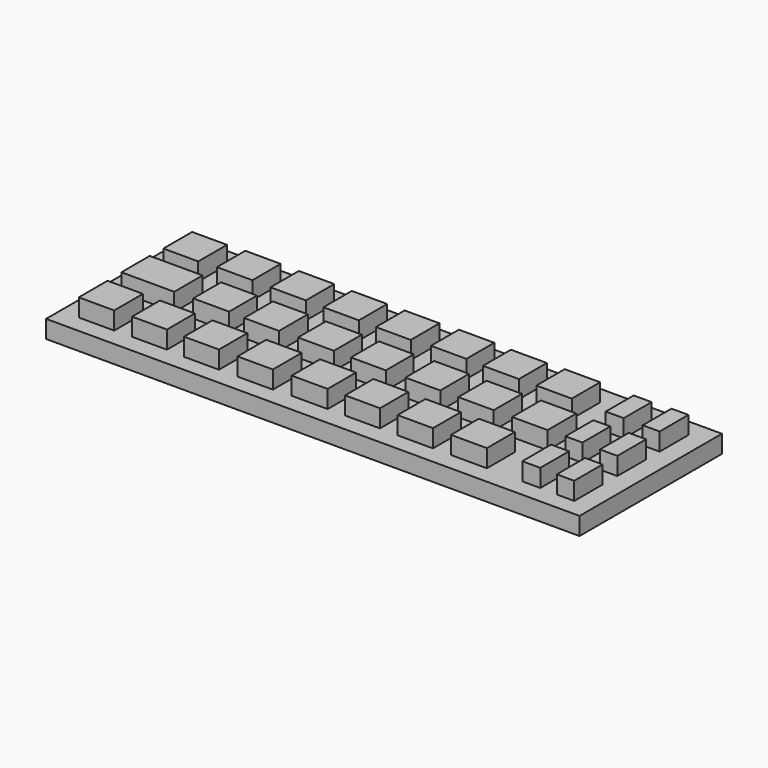
from build123d import *

# Parameters (mm, degrees)
SKETCH_W       = 30.047779
SKETCH_H       = 10.025875
PAD_DEPTH      = 1
SKETCH001_W    = 1.995144
SKETCH001_H    = 2.024921
SKETCH001_W_2  = 1.965365
SKETCH001_H_2  = 1.965365
SKETCH001_W_3  = 1.965363
SKETCH001_H_3  = 1.995143
SKETCH001_W_4  = 1.995143
SKETCH001_W_5  = 2.024922
SKETCH001_W_6  = 1.965367
SKETCH001_W_7  = 1.995147
SKETCH001_W_8  = 0.982683
SKETCH001_W_9  = 1.012457
SKETCH001_W_10 = 0.952904
SKETCH001_H_4  = 2.024922
SKETCH001_W_11 = 1.012463
SKETCH001_H_5  = 1.965366
SKETCH001_W_12 = 0.952906
SKETCH001_W_13 = 2.977825
SKETCH001_W_14 = 1.965366
SKETCH001_H_6  = 1.995144
SKETCH001_W_15 = 2.024921
SKETCH001_W_16 = 1.965361
SKETCH001_W_17 = 1.99514
SKETCH001_W_18 = 1.965362
SKETCH001_W_19 = 2.024923
SKETCH001_H_7  = 1.965364
SKETCH001_W_20 = 1.995142
PAD001_DEPTH   = 1


with BuildPart() as part:
    # Sketch → Pad (new body)
    with BuildSketch(Plane.XY):
        with Locations((15.023889, 5.012937)):
            Rectangle(SKETCH_W, SKETCH_H)
    extrude(amount=PAD_DEPTH)

    # Sketch001 (on Face6 of Pad) → Pad001 (join)
    with BuildSketch(Plane.XY.offset(1)):
        with Locations((2.041063, 2.009386)):
            Rectangle(SKETCH001_W, SKETCH001_H)
        with Locations((5.003999, 2.009385)):
            Rectangle(SKETCH001_W_2, SKETCH001_H_2)
        with Locations((7.981825, 1.964719)):
            Rectangle(SKETCH001_W_3, SKETCH001_H_3)
        with Locations((11.004319, 1.979607)):
            Rectangle(SKETCH001_W_4, SKETCH001_H)
        with Locations((14.026814, 2.024274)):
            Rectangle(SKETCH001_W_5, SKETCH001_H_3)
        with Locations((17.004638, 2.024274)):
            Rectangle(SKETCH001_W_6, SKETCH001_H_3)
        with Locations((19.997352, 1.979607)):
            Rectangle(SKETCH001_W_7, SKETCH001_H_2)
        with Locations((23.019848, 1.979607)):
            Rectangle(SKETCH001_W_5, SKETCH001_H_2)
        with Locations((28.484158, 1.964719)):
            Rectangle(SKETCH001_W_8, SKETCH001_H_3)
        with Locations((26.53368, 2.009386)):
            Rectangle(SKETCH001_W_9, SKETCH001_H)
        with Locations((26.503904, 5.016991)):
            Rectangle(SKETCH001_W_10, SKETCH001_H_2)
        with Locations((28.484158, 5.01699)):
            Rectangle(SKETCH001_W_8, SKETCH001_H_4)
        with Locations((26.444347, 7.965038)):
            Rectangle(SKETCH001_W_11, SKETCH001_H_5)
        with Locations((28.499047, 7.994816)):
            Rectangle(SKETCH001_W_12, SKETCH001_H_4)
        with Locations((2.502625, 5.03188)):
            Rectangle(SKETCH001_W_13, SKETCH001_H_3)
        with Locations((2.026174, 7.965037)):
            Rectangle(SKETCH001_W_14, SKETCH001_H)
        with Locations((4.98911, 8.039484)):
            Rectangle(SKETCH001_W, SKETCH001_H_6)
        with Locations((6.04624, 5.046768)):
            Rectangle(SKETCH001_W_15, SKETCH001_H_2)
        with Locations((8.934731, 5.01699)):
            Rectangle(SKETCH001_W_2, SKETCH001_H_4)
        with Locations((11.972112, 5.016991)):
            Rectangle(SKETCH001_W_15, SKETCH001_H_2)
        with Locations((14.94994, 4.987212)):
            Rectangle(SKETCH001_W_14, SKETCH001_H_5)
        with Locations((18.017098, 5.01699)):
            Rectangle(SKETCH001_W_16, SKETCH001_H_4)
        with Locations((21.009815, 5.002101)):
            Rectangle(SKETCH001_W, SKETCH001_H_6)
        with Locations((24.047197, 5.01699)):
            Rectangle(SKETCH001_W_17, SKETCH001_H_4)
        with Locations((8.026494, 8.009705)):
            Rectangle(SKETCH001_W, SKETCH001_H_3)
        with Locations((11.034097, 7.979926)):
            Rectangle(SKETCH001_W_4, SKETCH001_H_3)
        with Locations((13.997034, 7.965037)):
            Rectangle(SKETCH001_W_18, SKETCH001_H)
        with Locations((17.019527, 8.054373)):
            Rectangle(SKETCH001_W, SKETCH001_H_5)
        with Locations((20.01224, 7.994816)):
            Rectangle(SKETCH001_W_19, SKETCH001_H_7)
        with Locations((23.004958, 8.009705)):
            Rectangle(SKETCH001_W_20, SKETCH001_H_3)
    extrude(amount=PAD001_DEPTH)


solid = part.part
